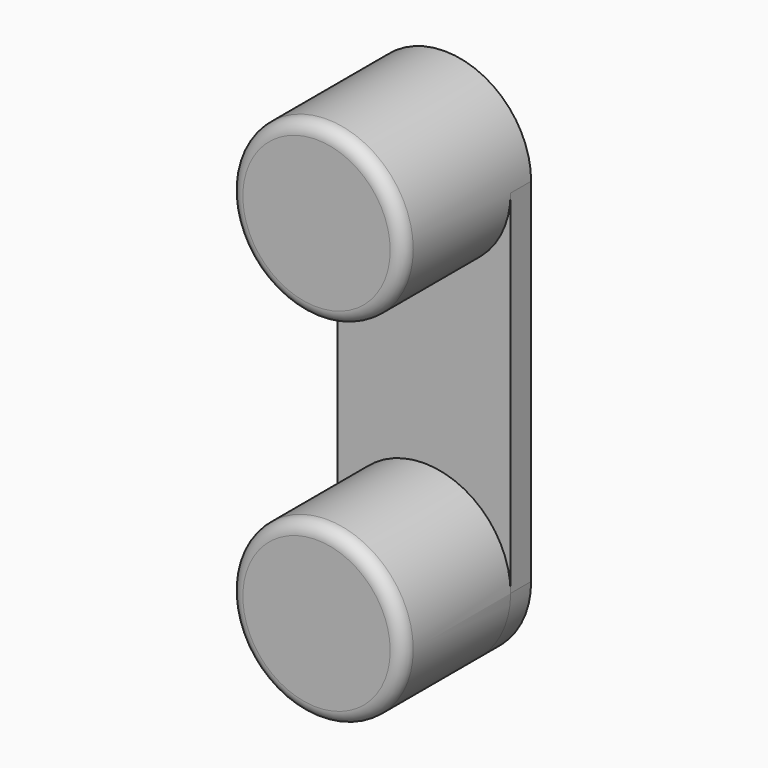
from build123d import *

# Parameters (mm, degrees)
PAD002_DEPTH = 0.8
SKETCH079_R  = 2.7
PAD003_DEPTH = 5
FILLET001_R  = 0.4


with BuildPart() as part:
    # Sketch078 → Pad002 (new body)
    with BuildSketch(Plane.XZ):
        with BuildLine():
            ThreePointArc((2.7, 5.5), (0, 8.2), (-2.7, 5.5))
            Line((-2.7, 5.5), (-2.7, -5.500015))
            ThreePointArc((-2.7, -5.500015), (0, -8.2), (2.7, -5.500015))
            Line((2.7, 5.5), (2.7, -5.500015))
        make_face()
    extrude(amount=PAD002_DEPTH)

    # Sketch079 → Pad003 (join)
    with BuildSketch(Plane.XZ):
        with Locations((0, 5.5)):
            Circle(SKETCH079_R)
        with Locations((0, -5.5)):
            Circle(SKETCH079_R)
    extrude(amount=PAD003_DEPTH)

    # Fillet001
    fillet001_edges = [part.edges().sort_by_distance(p)[0] for p in [
        (-2.7, -5, -5.5),
        (-2.7, -5, 5.5),
    ]]
    fillet(fillet001_edges, radius=FILLET001_R)


solid = part.part
